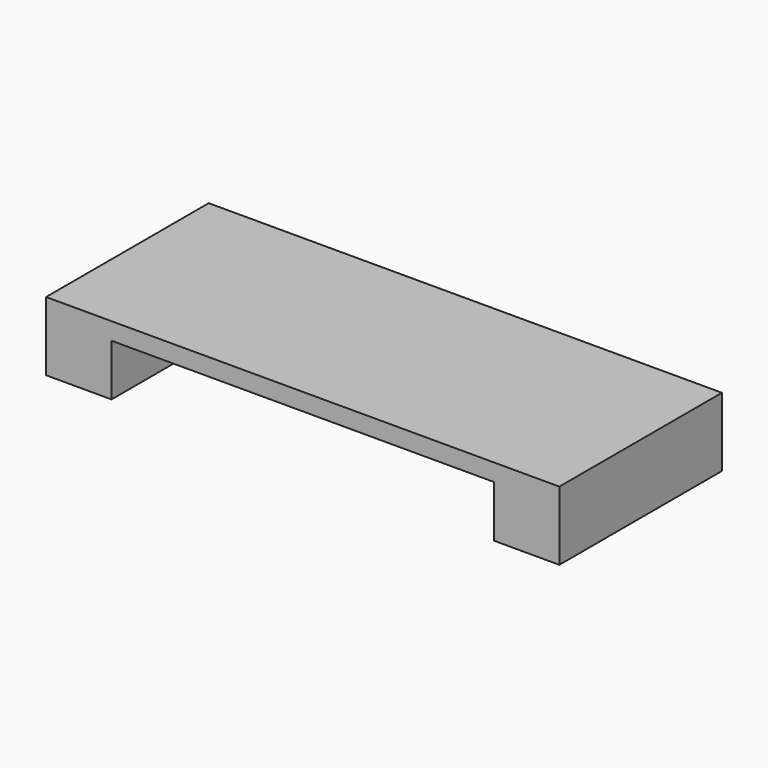
from build123d import *

# Parameters (mm, degrees)
SKETCH001_W  = 11.1
SKETCH001_H  = 4
PAD001_DEPTH = 1.5
SKETCH_W     = 14.9
SKETCH_H     = 5.9
PAD_DEPTH    = 2


with BuildPart() as obj1:
    # Sketch001 → Pad001 (new body)
    with BuildSketch(Plane.XY):
        with Locations((0, -0.95)):
            Rectangle(SKETCH001_W, SKETCH001_H)
    extrude(amount=PAD001_DEPTH)


with BuildPart() as cut:
    # Sketch → Pad (new body)
    with BuildSketch(Plane.XY):
        Rectangle(SKETCH_W, SKETCH_H)
    extrude(amount=PAD_DEPTH)

    # Cut: cut obj1
    add(obj1.part, mode=Mode.SUBTRACT)


solid = cut.part
